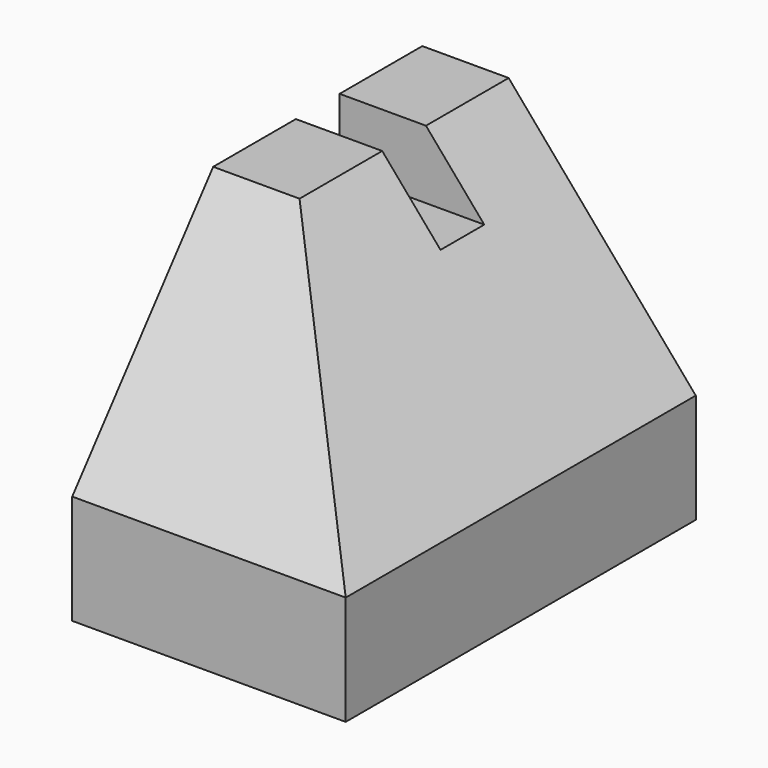
from build123d import *

# Parameters (mm, degrees)
F0_W     = 50
F0_H     = 80
F1_DEPTH = 60
F3_DEPTH = 80.001
F6_DEPTH = 66.156149
F7_W     = 5
F7_H     = 12.45938
F8_DEPTH = 43.57978


with BuildPart() as f1:
    # F0 (on Top) → F1 (new body)
    with BuildSketch(Plane.XY):
        with Locations((25, 40)):
            Rectangle(F0_W, F0_H)
    extrude(amount=F1_DEPTH)

    # F2 (on face) → F3 (cut, through all)
    with BuildSketch(Plane.XZ):
        Polygon((50, 20.009331), (50, 60), (15.790775, 60), align=None)
    extrude(amount=-F3_DEPTH, mode=Mode.SUBTRACT)

    # F5 (on offset) → F6 (cut)
    with BuildSketch(Plane.YZ.offset(50)):
        Polygon((0, 65.009331), (0, 20.009331), (36.240832, 65.009331), align=None)
    extrude(amount=-F6_DEPTH, mode=Mode.SUBTRACT)

    # F7 (on face) → F8 (cut)
    with BuildSketch(Plane(origin=(0, 0, 0), x_dir=(0, -1, 0), z_dir=(-1, 0, 0))):
        with Locations((-53.603279, 53.77031)):
            Rectangle(F7_W, F7_H)
        with Locations((-58.603279, 53.77031)):
            Rectangle(F7_W, F7_H)
    extrude(amount=-F8_DEPTH, mode=Mode.SUBTRACT)


solid = f1.part
